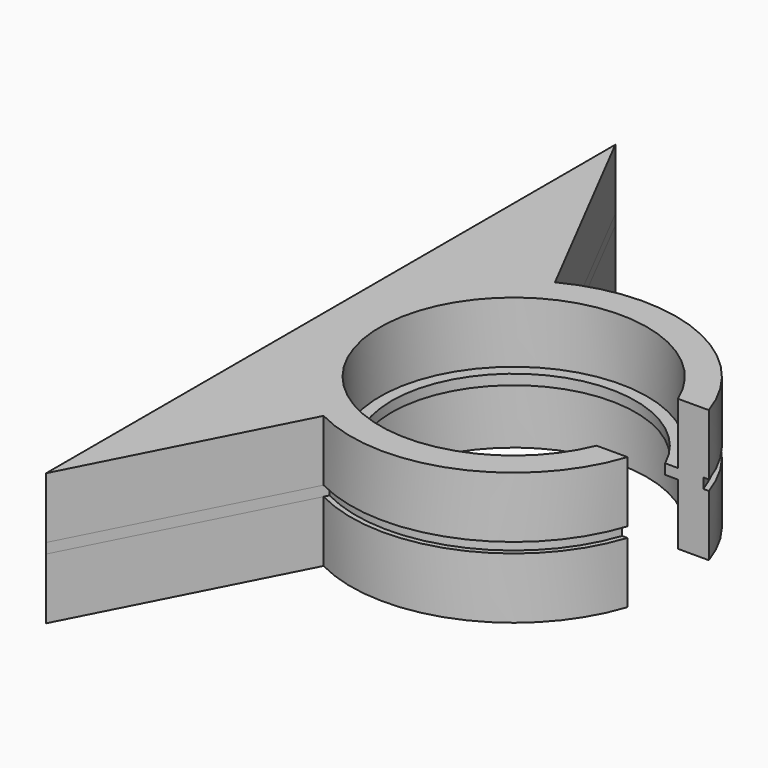
from build123d import *

# Parameters (mm, degrees)
PAD_DEPTH       = 6
PAD001_DEPTH    = 1
PAD002_DEPTH    = 6
SKETCH003_R     = 13.15
POCKET_DEPTH    = 6
SKETCH004_R     = 13.15
POCKET001_DEPTH = 6
SKETCH005_R     = 12
POCKET002_DEPTH = 1
SKETCH006_W     = 6
SKETCH006_H     = 10
POCKET003_DEPTH = 13


with BuildPart() as part:
    # Sketch → Pad (new body)
    with BuildSketch(Plane.XY):
        with BuildLine():
            Line((-7.317568, 14.228605), (-18, 35))
            Line((-18, 35), (-18, -35))
            Line((-18, -35), (-7.317568, -14.228605))
            ThreePointArc((-7.317568, -14.228605), (16, 0), (-7.317568, 14.228605))
        make_face()
    extrude(amount=PAD_DEPTH)

    # Sketch001 (on Face6 of Pad) → Pad001 (join)
    with BuildSketch(Plane.XY.offset(6)):
        with BuildLine():
            Line((-7.088894, 13.783961), (-18, 35))
            Line((-18, 35), (-18, -35))
            Line((-18, -35), (-7.088894, -13.783961))
            ThreePointArc((-7.088894, -13.783961), (15.5, 0), (-7.088894, 13.783961))
        make_face()
    extrude(amount=PAD001_DEPTH)

    # Sketch002 (on Face10 of Pad001) → Pad002 (join)
    with BuildSketch(Plane.XY.offset(7)):
        with BuildLine():
            Line((-7.317568, 14.228605), (-18, 35))
            Line((-18, 35), (-18, -35))
            Line((-18, -35), (-7.317568, -14.228605))
            ThreePointArc((-7.317568, -14.228605), (16, 0), (-7.317568, 14.228605))
        make_face()
    extrude(amount=PAD002_DEPTH)

    # Sketch003 (on Face4 of Pad002) → Pocket (cut)
    with BuildSketch(Plane(origin=(0, 0, 0), x_dir=(1, 0, 0), z_dir=(0, 0, -1))):
        Circle(SKETCH003_R)
    extrude(amount=-POCKET_DEPTH, mode=Mode.SUBTRACT)

    # Sketch004 (on Face17 of Pocket) → Pocket001 (cut)
    with BuildSketch(Plane.XY.offset(13)):
        Circle(SKETCH004_R)
    extrude(amount=-POCKET001_DEPTH, mode=Mode.SUBTRACT)

    # Sketch005 (on Face20 of Pocket001) → Pocket002 (cut)
    with BuildSketch(Plane.XY.offset(7)):
        Circle(SKETCH005_R)
    extrude(amount=-POCKET002_DEPTH, mode=Mode.SUBTRACT)

    # Sketch006 (on Face17 of Pocket002) → Pocket003 (cut)
    with BuildSketch(Plane.XY.offset(13)):
        with Locations((13, 0)):
            Rectangle(SKETCH006_W, SKETCH006_H)
    extrude(amount=-POCKET003_DEPTH, mode=Mode.SUBTRACT)


solid = part.part
